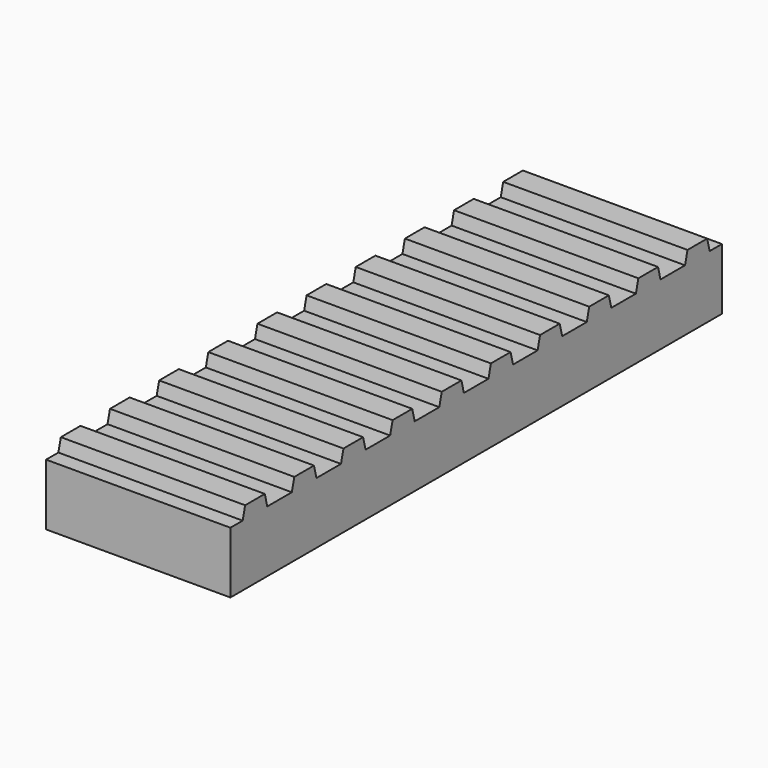
from build123d import *

# Parameters (mm, degrees)
SKETCH_W     = 15
SKETCH_H     = 50
PAD_DEPTH    = 5
PAD001_DEPTH = 15


with BuildPart() as part:
    # Sketch → Pad (new body)
    with BuildSketch(Plane.XY):
        Rectangle(SKETCH_W, SKETCH_H)
    extrude(amount=PAD_DEPTH)

    # Sketch001 (on Face3 of Pad) → Pad001 (join)
    with BuildSketch(Plane.YZ.offset(7.5)):
        Polygon((-23.75, 5), (-23.5, 6), (-21.5, 6), (-21.25, 5), align=None)
        Polygon((-18.75, 5), (-18.5, 6), (-16.5, 6), (-16.25, 5), align=None)
        Polygon((-13.75, 5), (-13.5, 6), (-11.5, 6), (-11.25, 5), align=None)
        Polygon((-8.75, 5), (-8.5, 6), (-6.5, 6), (-6.25, 5), align=None)
        Polygon((-3.75, 5), (-3.5, 6), (-1.5, 6), (-1.25, 5), align=None)
        Polygon((1.25, 5), (1.5, 6), (3.5, 6), (3.75, 5), align=None)
        Polygon((6.25, 5), (6.5, 6), (8.5, 6), (8.75, 5), align=None)
        Polygon((11.25, 5), (11.5, 6), (13.5, 6), (13.75, 5), align=None)
        Polygon((16.25, 5), (16.5, 6), (18.5, 6), (18.75, 5), align=None)
        Polygon((21.25, 5), (21.5, 6), (23.5, 6), (23.75, 5), align=None)
    extrude(amount=-PAD001_DEPTH)


solid = part.part
